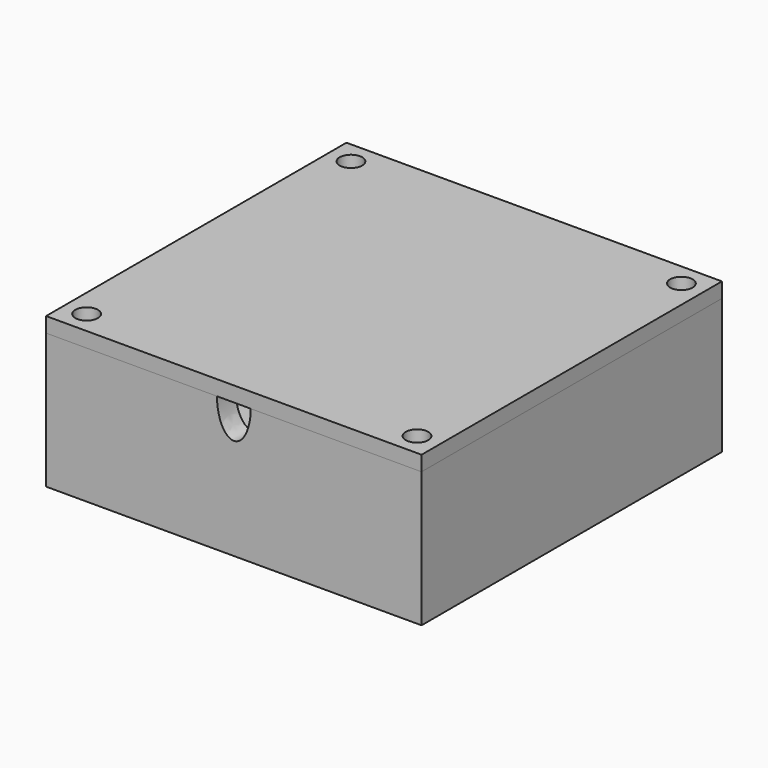
from build123d import *

# Parameters (mm, degrees)
SKETCH_W        = 50
SKETCH_H        = 50
PAD_DEPTH       = 1
SKETCH001_W     = 50
SKETCH001_H     = 50
PAD001_DEPTH    = 17
SKETCH002_R     = 1.15
POCKET_DEPTH    = 8
POCKET001_DEPTH = 3
SKETCH004_W     = 50
SKETCH004_H     = 50
SKETCH004_R     = 1.5
PAD002_DEPTH    = 2


with BuildPart() as main_box:
    # Sketch → Pad (new body)
    with BuildSketch(Plane.XY):
        Rectangle(SKETCH_W, SKETCH_H)
        with BuildLine():
            ThreePointArc((-2.561738, 4), (-4.75, 0), (-2.561738, -4))
            Line((2.561738, -4), (-2.561738, -4))
            ThreePointArc((2.561738, -4), (4.75, 0), (2.561738, 4))
            Line((-2.561738, 4), (2.561738, 4))
        make_face(mode=Mode.SUBTRACT)
    extrude(amount=-PAD_DEPTH)

    # Sketch001 → Pad001 (join)
    with BuildSketch(Plane.XY):
        Rectangle(SKETCH001_W, SKETCH001_H)
        Polygon((-19, 22), (19, 22), (19, 19), (22, 19), (22, -19), (19, -19), (19, -22), (-19, -22), (-19, -19), (-22, -19), (-22, 19), (-19, 19), align=None, mode=Mode.SUBTRACT)
    extrude(amount=PAD001_DEPTH)

    # Sketch002 (on Face9 of Pad001) → Pocket (cut)
    with BuildSketch(Plane.XY.offset(17)):
        with Locations((-22, 22)):
            Circle(SKETCH002_R)
        with Locations((22, 22)):
            Circle(SKETCH002_R)
        with Locations((-22, -22)):
            Circle(SKETCH002_R)
        with Locations((22, -22)):
            Circle(SKETCH002_R)
    extrude(amount=-POCKET_DEPTH, mode=Mode.SUBTRACT)

    # Sketch003 (on Face14 of Pocket) → Pocket001 (cut)
    with BuildSketch(Plane.XZ.offset(25)):
        with BuildLine():
            add(Edge.make_bspline(
                [(-2.25, 17), (-2.25, 12.5), (0, 12.5), (2.25, 12.5), (2.25, 17)],
                knots=[4.712389, 4.712389, 4.712389, 6.283185, 6.283185, 7.853982, 7.853982, 7.853982], degree=2, weights=[1, 0.707107, 1, 0.707107, 1]))
            Line((2.25, 17), (-2.25, 17))
        make_face()
    extrude(amount=-POCKET001_DEPTH, mode=Mode.SUBTRACT)


with BuildPart() as cover:
    # Sketch004 → Pad002 (new body)
    with BuildSketch(Plane.XY.offset(17)):
        Rectangle(SKETCH004_W, SKETCH004_H)
        with Locations((-22, 22)):
            Circle(SKETCH004_R, mode=Mode.SUBTRACT)
        with Locations((22, 22)):
            Circle(SKETCH004_R, mode=Mode.SUBTRACT)
        with Locations((22, -22)):
            Circle(SKETCH004_R, mode=Mode.SUBTRACT)
        with Locations((-22, -22)):
            Circle(SKETCH004_R, mode=Mode.SUBTRACT)
    extrude(amount=PAD002_DEPTH)


solid = Compound([main_box.part, cover.part])
